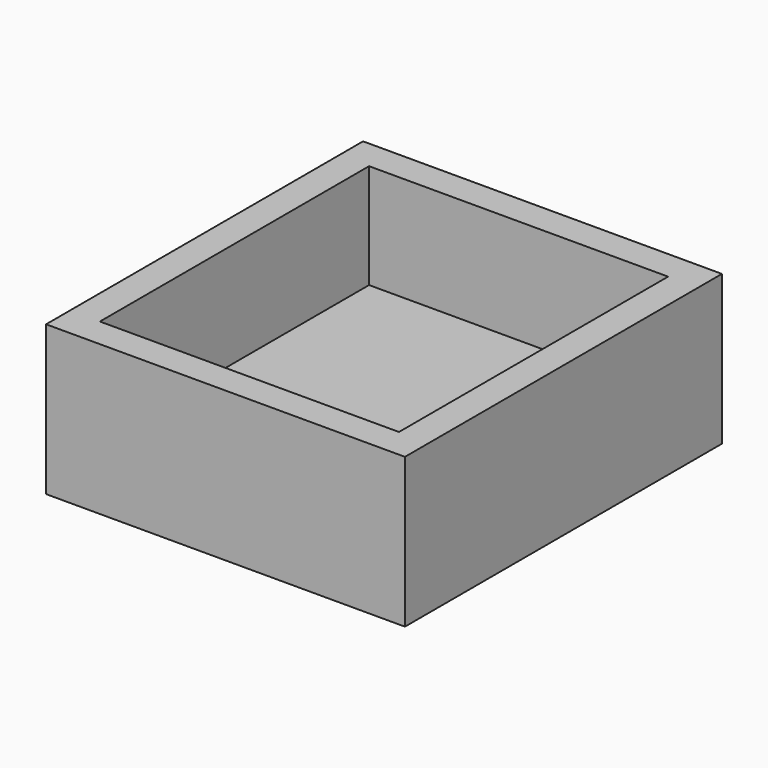
from build123d import *

# Parameters (mm, degrees)
BOX_W        = 40
BOX_H        = 45
BOX_DEPTH    = 14
BOX004_W     = 48
BOX004_H     = 53
BOX004_DEPTH = 20


with BuildPart() as box:
    # Box → Box (new body)
    with BuildSketch(Plane(origin=(-20, 15, 156), x_dir=(1, 0, 0), z_dir=(0, 0, 1))):
        with Locations((20, 22.5)):
            Rectangle(BOX_W, BOX_H)
    extrude(amount=BOX_DEPTH)


with BuildPart() as as7265hold:
    # Box004 → Box004 (new body)
    with BuildSketch(Plane(origin=(-24, 11, 150), x_dir=(1, 0, 0), z_dir=(0, 0, 1))):
        with Locations((24, 26.5)):
            Rectangle(BOX004_W, BOX004_H)
    extrude(amount=BOX004_DEPTH)

    # Cut001: cut Box
    add(box.part, mode=Mode.SUBTRACT)


with BuildPart() as as7265hold_1:
    # Cut001 placement: moved
    add(as7265hold.part.moved(Location((0, 6, -31))))


solid = as7265hold_1.part
